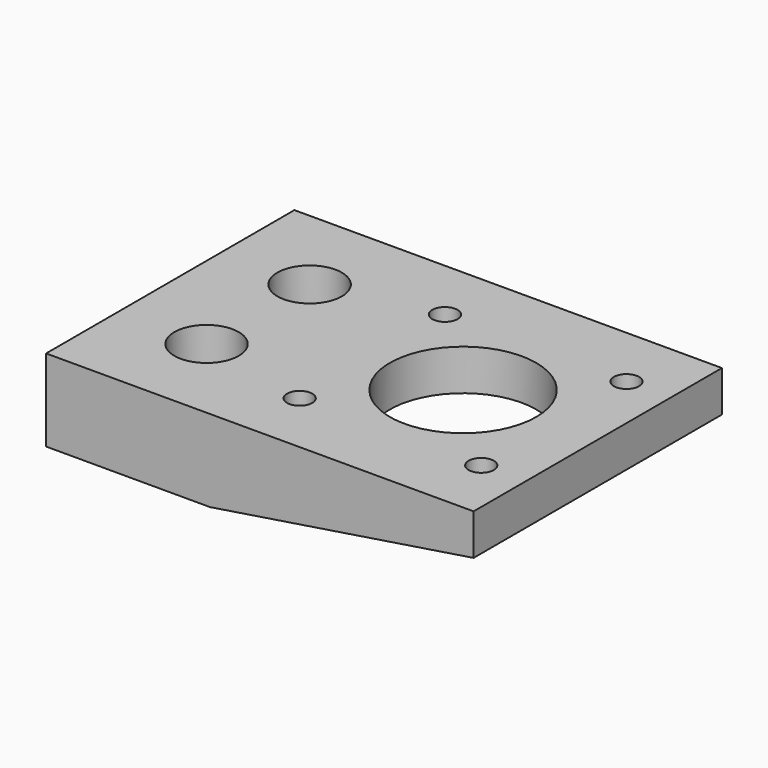
from build123d import *

# Parameters (mm, degrees)
F0_W     = 73
F0_H     = 43
F0_R     = 3.15
F0_R_2   = 2.15
F0_R_3   = 12.5
F1_DEPTH = 20
F2_W     = 73
F2_H     = 6
F2_W_2   = 45
F2_H_2   = 7
F3_DEPTH = 43.001
F4_W     = 73
F4_H     = 5
F5_DEPTH = 14
F7_DEPTH = 53.001
F8_R     = 5.5
F9_DEPTH = 6


with BuildPart() as f1:
    # F0 (on Top) → F1 (new body)
    with BuildSketch(Plane.XY):
        Rectangle(F0_W, F0_H)
        with Locations((-21.5, -11)):
            Circle(F0_R, mode=Mode.SUBTRACT)
        with Locations((-2, -15.5)):
            Circle(F0_R_2, mode=Mode.SUBTRACT)
        with Locations((29, -15.5)):
            Circle(F0_R_2, mode=Mode.SUBTRACT)
        with Locations((-21.5, 11)):
            Circle(F0_R, mode=Mode.SUBTRACT)
        with Locations((-2, 15.5)):
            Circle(F0_R_2, mode=Mode.SUBTRACT)
        with Locations((13.5, 0)):
            Circle(F0_R_3, mode=Mode.SUBTRACT)
        with Locations((29, 15.5)):
            Circle(F0_R_2, mode=Mode.SUBTRACT)
    extrude(amount=F1_DEPTH)

    # F2 (on face) → F3 (cut, through all)
    with BuildSketch(Plane.XZ.offset(21.5)):
        with Locations((0, 17)):
            Rectangle(F2_W, F2_H)
        with Locations((14, 3.5)):
            Rectangle(F2_W_2, F2_H_2)
    extrude(amount=-F3_DEPTH, mode=Mode.SUBTRACT)

    # F4 (on face) → F5 (join, through all)
    with BuildSketch(Plane.XY.offset(14)):
        with Locations((0, -24)):
            Rectangle(F4_W, F4_H)
        with Locations((0, 24)):
            Rectangle(F4_W, F4_H)
    extrude(amount=-F5_DEPTH)

    # F6 (on face) → F7 (cut, through all)
    with BuildSketch(Plane.XZ.offset(26.5)):
        Polygon((36.5, 7), (-8.5, 0), (36.5, 0), align=None)
    extrude(amount=-F7_DEPTH, mode=Mode.SUBTRACT)

    # F8 (on face) → F9 (cut)
    with BuildSketch(Plane.XY.offset(14)):
        with Locations((-21.5, 11)):
            Circle(F8_R)
        with Locations((-21.5, -11)):
            Circle(F8_R)
    extrude(amount=-F9_DEPTH, mode=Mode.SUBTRACT)


solid = f1.part
